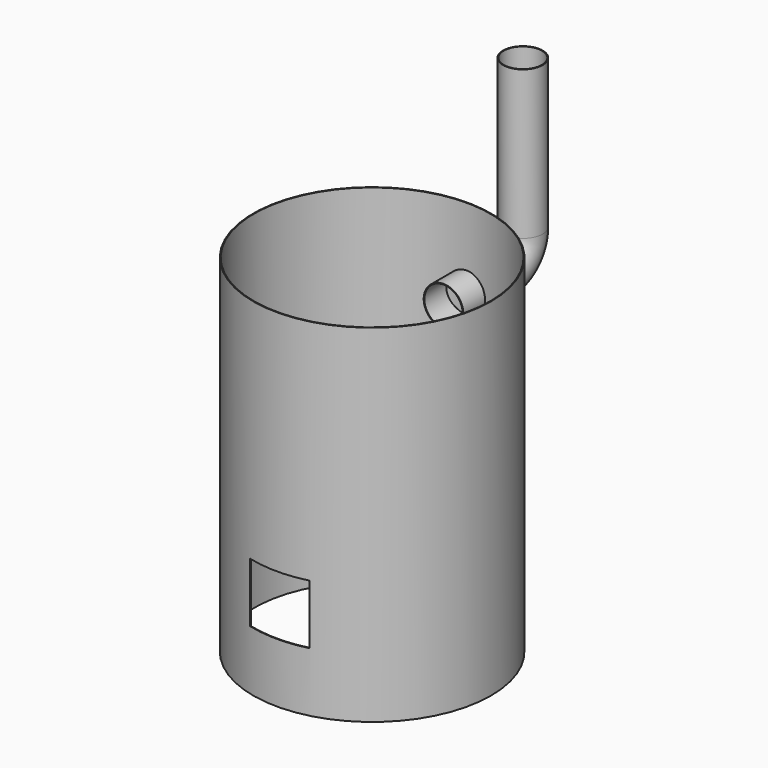
from build123d import *

# Parameters (mm, degrees)
F0_R     = 304.8
F0_R_2   = 302.99025
F1_DEPTH = 889
F3_W     = 152.4
F3_H     = 152.4
F4_DEPTH = 25.4
F7_R     = 50.8
F7_R_2   = 48.9585


with BuildPart() as f1:
    # F0 (on Top) → F1 (new body)
    with BuildSketch(Plane.XY):
        Circle(F0_R)
        Circle(F0_R_2, mode=Mode.SUBTRACT)
    extrude(amount=F1_DEPTH)

    # F3 (on offset) → F4 (cut)
    with BuildSketch(Plane.XZ.offset(304.8)):
        with Locations((0, 228.6)):
            Rectangle(F3_W, F3_H)
    extrude(amount=-F4_DEPTH, mode=Mode.SUBTRACT)


with BuildPart() as f8:
    # F8: sweep along a path in F5
    with BuildLine(Plane.YZ) as f8_path:
        Line((228.6, 685.8), (406.4, 685.8))
        ThreePointArc((406.4, 685.8), (460.281537, 708.118463), (482.6, 762))
        Line((482.6, 762), (482.6, 1143))
    # F7 (on offset) → F8 (sweep)
    with BuildSketch(Plane.XZ.offset(-228.6)):
        with Locations((0, 685.8)):
            Circle(F7_R)
        with Locations((0, 685.8)):
            Circle(F7_R_2, mode=Mode.SUBTRACT)
    sweep(path=f8_path.line)


solid = Compound([f1.part, f8.part])
